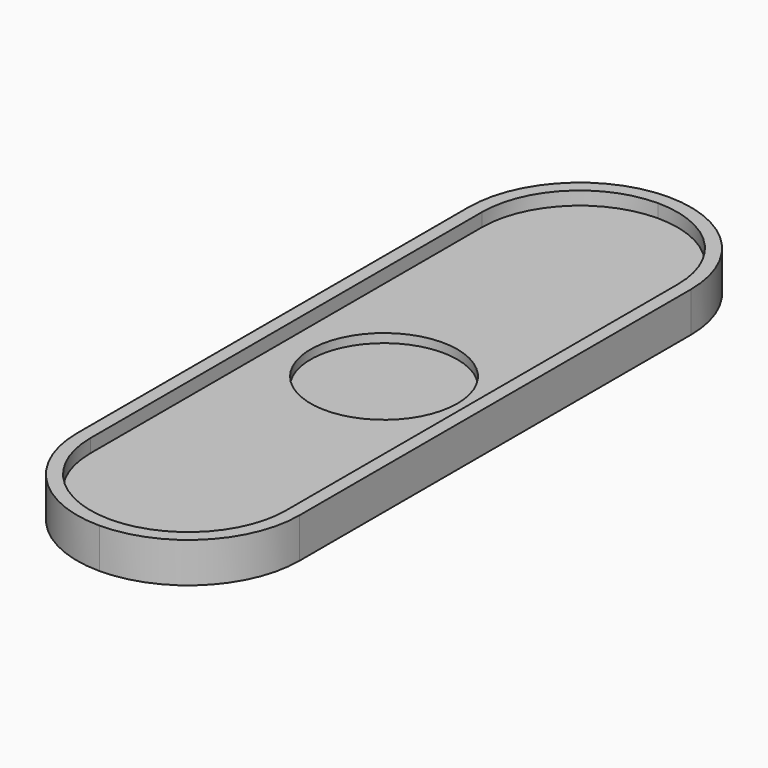
from build123d import *

# Parameters (mm, degrees)
F0_R     = 15
F0_R_2   = 16.5
F1_DEPTH = 6
F2_DEPTH = 4
F3_DEPTH = 9


with BuildPart() as f1:
    # F0 (on Top) → F1 (new body)
    with BuildSketch(Plane.XY):
        with BuildLine():
            ThreePointArc((0, -77), (15.556349, -70.556349), (22, -55))
            Line((22, -55), (22, 55))
            ThreePointArc((22, 55), (15.556349, 70.556349), (0, 77))
            ThreePointArc((0, 77), (-15.556349, 70.556349), (-22, 55))
            Line((-22, 55), (-22, -55))
            ThreePointArc((-22, -55), (-15.556349, -70.556349), (0, -77))
        make_face()
        with Locations((0, -45)):
            Circle(F0_R, mode=Mode.SUBTRACT)
        Circle(F0_R_2, mode=Mode.SUBTRACT)
        with Locations((0, 45)):
            Circle(F0_R_2, mode=Mode.SUBTRACT)
        with Locations((0, -45)):
            Circle(F0_R)
        with Locations((0, 45)):
            Circle(F0_R_2)
    extrude(amount=F1_DEPTH)

    # F0 (on Top) → F2 (join)
    with BuildSketch(Plane.XY):
        with Locations((0, -45)):
            Circle(F0_R)
        Circle(F0_R_2)
        with Locations((0, 45)):
            Circle(F0_R_2)
    extrude(amount=F2_DEPTH)

    # F0 (on Top) → F3 (join)
    with BuildSketch(Plane.XY):
        with BuildLine():
            ThreePointArc((0, -80), (17.67767, -72.67767), (25, -55))
            Line((25, -55), (25, 55))
            ThreePointArc((25, 55), (17.67767, 72.67767), (0, 80))
            ThreePointArc((0, 80), (-17.67767, 72.67767), (-25, 55))
            Line((-25, 55), (-25, -55))
            ThreePointArc((-25, -55), (-17.67767, -72.67767), (0, -80))
        make_face()
        with BuildLine():
            Line((22, 55), (22, -55))
            ThreePointArc((22, -55), (15.556349, -70.556349), (0, -77))
            ThreePointArc((0, -77), (-15.556349, -70.556349), (-22, -55))
            Line((-22, -55), (-22, 55))
            ThreePointArc((-22, 55), (-15.556349, 70.556349), (0, 77))
            ThreePointArc((0, 77), (15.556349, 70.556349), (22, 55))
        make_face(mode=Mode.SUBTRACT)
    extrude(amount=F3_DEPTH)


solid = f1.part
